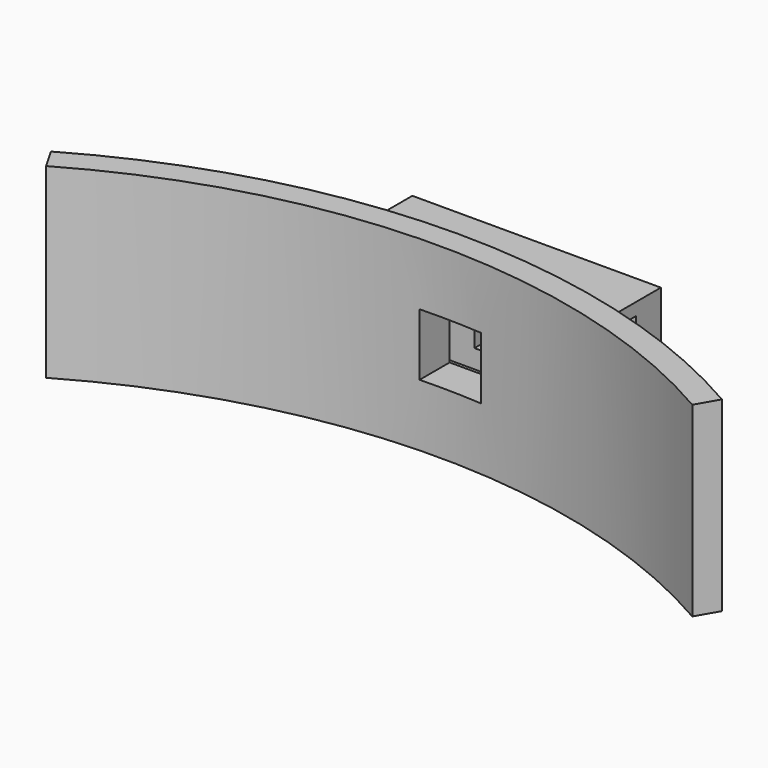
from build123d import *

# Parameters (mm, degrees)
BOX002_W                    = 20
BOX002_H                    = 2.5
BOX002_DEPTH                = 8
BOX_W                       = 5
BOX_H                       = 20
BOX_DEPTH                   = 5
BOX001_W                    = 20
BOX001_H                    = 7
BOX001_DEPTH                = 10
CYLINDER001_W               = 52
CYLINDER001_H               = 15
CYLINDER001_ANGLE           = 60
CYLINDER001_PLACEMENT_ANGLE = 60
CYLINDER_W                  = 54
CYLINDER_H                  = 15
CYLINDER_ANGLE              = 60
CYLINDER_PLACEMENT_ANGLE    = 60


with BuildPart() as slot:
    # Box002 → Box002 (new body)
    with BuildSketch(Plane(origin=(3, 46, 3.5), x_dir=(1, 0, 0), z_dir=(0, 0, 1))):
        with Locations((10, 1.25)):
            Rectangle(BOX002_W, BOX002_H)
    extrude(amount=BOX002_DEPTH)


with BuildPart() as pin_opening:
    # Box → Box (new body)
    with BuildSketch(Plane(origin=(7, 42, 5), x_dir=(1, 0, 0), z_dir=(0, 0, 1))):
        with Locations((2.5, 10)):
            Rectangle(BOX_W, BOX_H)
    extrude(amount=BOX_DEPTH)


with BuildPart() as latch:
    # Box001 → Box001 (new body)
    with BuildSketch(Plane(origin=(0, 44, 2.5), x_dir=(1, 0, 0), z_dir=(0, 0, 1))):
        with Locations((10, 3.5)):
            Rectangle(BOX001_W, BOX001_H)
    extrude(amount=BOX001_DEPTH)


with BuildPart() as bottle_wall001:
    # Cylinder001 → Cylinder001 (revolve)
    with BuildSketch(Plane.XZ):
        with Locations((26, 7.5)):
            Rectangle(CYLINDER001_W, CYLINDER001_H)
    revolve(axis=Axis((0, 0, 0), (0, 0, 1)), revolution_arc=CYLINDER001_ANGLE)


with BuildPart() as bottle_wall001_1:
    # Cylinder001 placement: moved
    add(bottle_wall001.part.moved(Location((8.5, -7, 0))).rotate(Axis((8.5, -7, 0), (0, 0, 1)), CYLINDER001_PLACEMENT_ANGLE))


with BuildPart() as cut002:
    # Cylinder → Cylinder (revolve)
    with BuildSketch(Plane.XZ):
        with Locations((27, 7.5)):
            Rectangle(CYLINDER_W, CYLINDER_H)
    revolve(axis=Axis((0, 0, 0), (0, 0, 1)), revolution_arc=CYLINDER_ANGLE)


with BuildPart() as cut002_1:
    # Cylinder placement: moved
    add(cut002.part.moved(Location((8.5, -7, 0))).rotate(Axis((8.5, -7, 0), (0, 0, 1)), CYLINDER_PLACEMENT_ANGLE))

    # Cut: cut bottle_wall001
    add(bottle_wall001_1.part, mode=Mode.SUBTRACT)


with BuildPart() as cut002_2:
    # Cut placement: moved
    add(cut002_1.part.moved(Location((0, -2, 0))))

    # Fusion: union latch
    add(latch.part)

    # Fusion001: union latch
    add(latch.part)

    # Cut001: cut pin_opening
    add(pin_opening.part, mode=Mode.SUBTRACT)

    # Cut002: cut slot
    add(slot.part, mode=Mode.SUBTRACT)


solid = cut002_2.part
